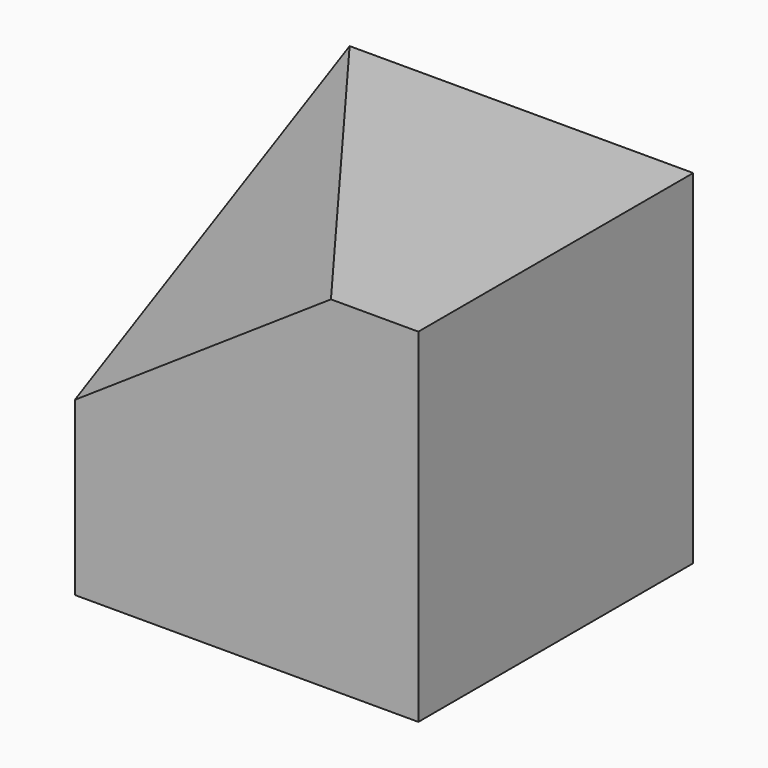
from build123d import *

# Parameters (mm, degrees)
F0_W     = 40
F0_H     = 40
F1_DEPTH = 40
F6_DEPTH = 25


with BuildPart() as f1:
    # F0 (on Top) → F1 (new body)
    with BuildSketch(Plane.XY):
        with Locations((20, -20)):
            Rectangle(F0_W, F0_H)
    extrude(amount=F1_DEPTH)

    # F5 (on 3pt) → F6 (cut)
    with BuildSketch(Plane(origin=(-15.7819553426, -11.7664276327, 23.5328552655), x_dir=(0.8575556699, -0.2300427234, 0.4600854468), z_dir=(-0.5143911673, -0.3835105545, 0.767021109))):
        Polygon((18.3413363993, -26.9343983382), (53.2953105867, -17.9471652955), (18.4012800455, 17.8862661123), align=None)
    extrude(amount=F6_DEPTH, mode=Mode.SUBTRACT)


solid = f1.part
